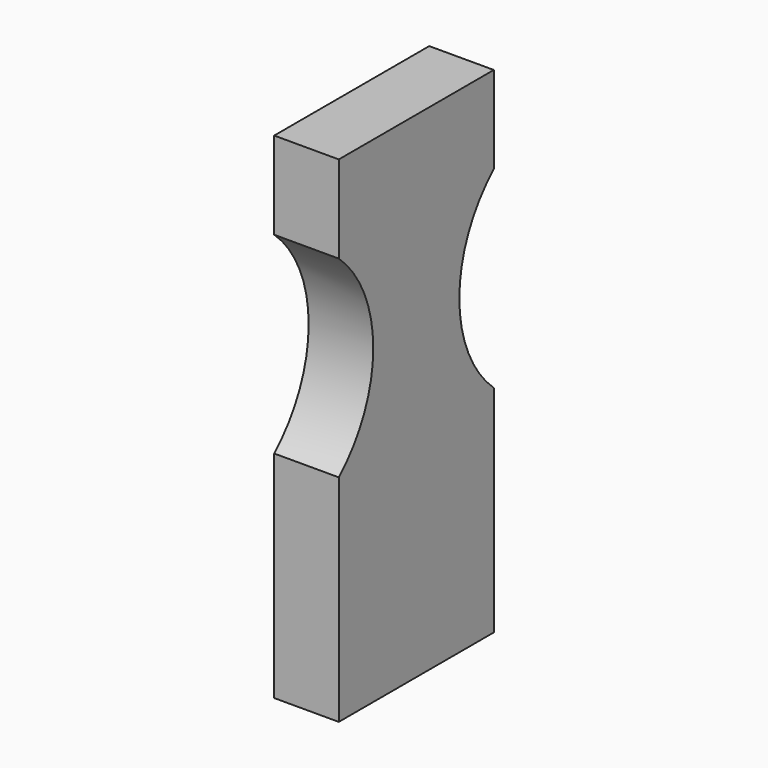
from build123d import *

# Parameters (mm, degrees)
F1_DEPTH = 38.1


with BuildPart() as f1:
    # F0 (on Right) → F1 (new body)
    with BuildSketch(Plane.YZ):
        with BuildLine():
            Line((-114.3, 0), (0, 0))
            Line((0, 0), (0, 127))
            ThreePointArc((0, 127), (-25.4, 183.796127), (0, 240.592253))
            Line((0, 240.592253), (0, 292.1))
            Line((0, 292.1), (-114.3, 292.1))
            Line((-114.3, 292.1), (-114.3, 240.592253))
            ThreePointArc((-114.3, 240.592253), (-88.9, 183.796127), (-114.3, 127))
            Line((-114.3, 127), (-114.3, 0))
        make_face()
    extrude(amount=F1_DEPTH)


solid = f1.part
